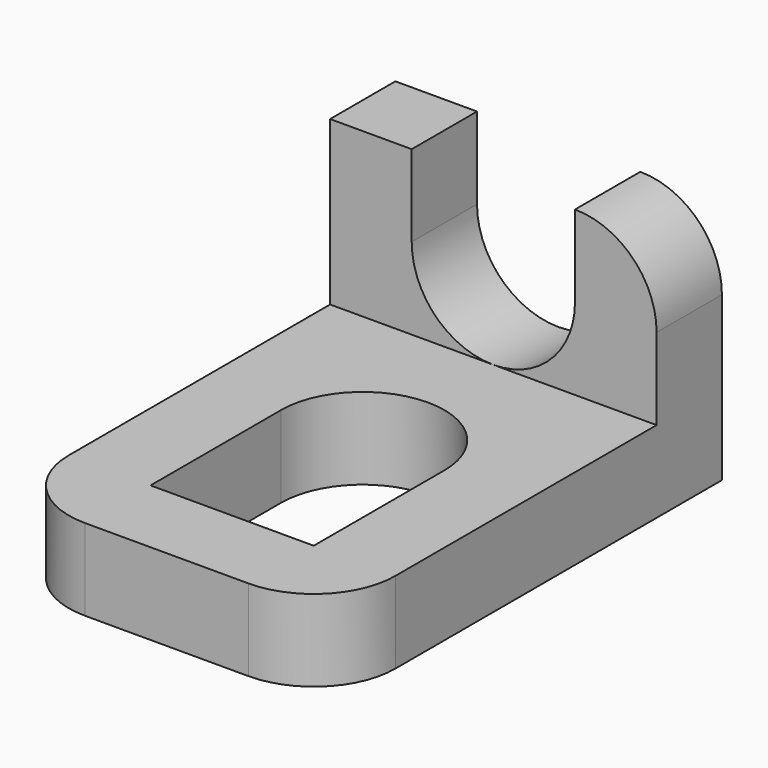
from build123d import *

# Parameters (mm, degrees)
F0_W     = 4
F0_H     = 6
F1_DEPTH = 1
F3_DEPTH = 25
F4_W     = 4
F4_H     = 1
F5_DEPTH = 2
F6_R     = 1
F8_DEPTH = 1


with BuildPart() as f1:
    # F0 (on Top) → F1 (new body)
    with BuildSketch(Plane.XY):
        with Locations((11.1132203601, 2.0522621416)):
            Rectangle(F0_W, F0_H)
    extrude(amount=F1_DEPTH)

    # F2 (on face) → F3 (cut)
    with BuildSketch(Plane.XY.offset(1)):
        with BuildLine():
            Line((10.1132203601, 2.0522621416), (10.1132203601, 0.0522621416))
            Line((10.1132203601, 0.0522621416), (12.1132203601, 0.0522621416))
            Line((12.1132203601, 0.0522621416), (12.1132203601, 2.0522621416))
            ThreePointArc((12.1132203601, 2.0522621416), (11.1132203601, 1.0522621416), (10.1132203601, 2.0522621416))
        make_face()
        with BuildLine():
            ThreePointArc((12.1132203601, 2.0522621416), (11.1132203601, 3.0522621416), (10.1132203601, 2.0522621416))
            Line((10.1132203601, 2.0522621416), (12.1132203601, 2.0522621416))
        make_face()
        with BuildLine():
            Line((12.1132203601, 2.0522621416), (10.1132203601, 2.0522621416))
            ThreePointArc((10.1132203601, 2.0522621416), (11.1132203601, 1.0522621416), (12.1132203601, 2.0522621416))
        make_face()
    extrude(amount=-F3_DEPTH, mode=Mode.SUBTRACT)

    # F4 (on face) → F5 (join)
    with BuildSketch(Plane.XY.offset(1)):
        with Locations((11.1132203601, 4.5522621416)):
            Rectangle(F4_W, F4_H)
    extrude(amount=F5_DEPTH)

    # F6
    f6_edges = [f1.edges().sort_by_distance(p)[0] for p in [
        (13.11322, 4.552262, 3),
        (13.11322, -0.947738, 0.5),
        (9.11322, -0.947738, 0.5),
    ]]
    fillet(f6_edges, radius=F6_R)

    # F7 (on face) → F8 (cut)
    with BuildSketch(Plane.XZ.offset(-4.0522621416)):
        with BuildLine():
            Line((11.1132203601, 3), (10.1132203601, 3))
            Line((10.1132203601, 3), (10.1132203601, 2))
            ThreePointArc((10.1132203601, 2), (10.4061135789, 2.7071067812), (11.1132203601, 3))
        make_face()
        with BuildLine():
            ThreePointArc((11.1132203601, 3), (10.4061135789, 2.7071067812), (10.1132203601, 2))
            ThreePointArc((10.1132203601, 2), (11.1132203601, 1), (12.1132203601, 2))
            ThreePointArc((12.1132203601, 2), (11.8203271413, 2.7071067812), (11.1132203601, 3))
        make_face()
        with BuildLine():
            Line((12.1132203601, 3), (11.1132203601, 3))
            ThreePointArc((11.1132203601, 3), (11.8203271413, 2.7071067812), (12.1132203601, 2))
            Line((12.1132203601, 2), (12.1132203601, 3))
        make_face()
    extrude(amount=-F8_DEPTH, mode=Mode.SUBTRACT)


solid = f1.part
